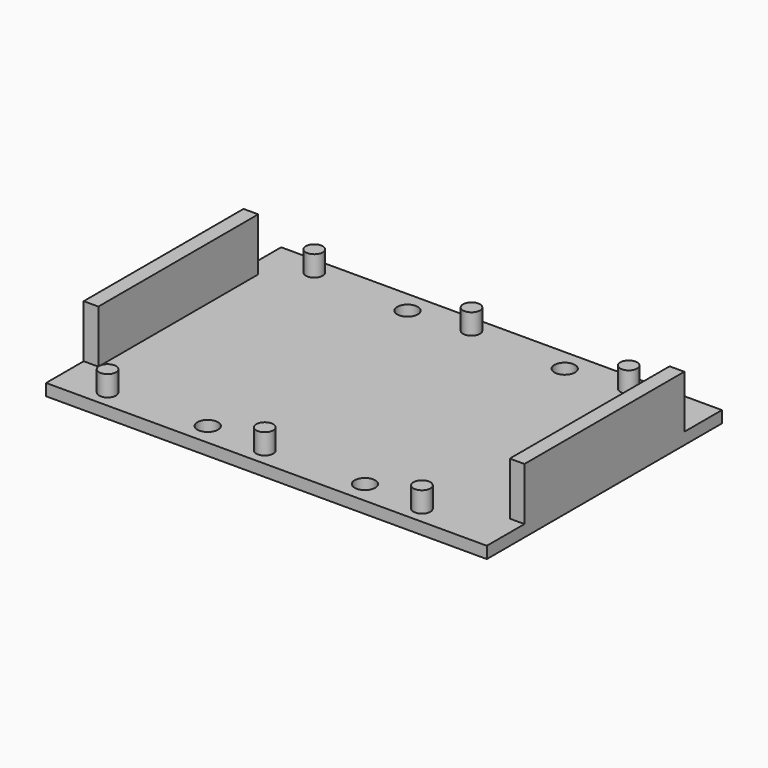
from build123d import *

# Parameters (mm, degrees)
SKETCH_W        = 150
SKETCH_H        = 100
PAD_DEPTH       = 4
SKETCH005_W     = 5
SKETCH005_H     = 100
PAD001_DEPTH    = 18
SKETCH007_R     = 3.5
POCKET001_DEPTH = 5
SKETCH006_R     = 2.875
PAD002_DEPTH    = 7
SKETCH008_W     = 16
SKETCH008_H     = 18
POCKET_DEPTH    = 5
SKETCH009_W     = 16
SKETCH009_H     = 18
POCKET002_DEPTH = 5


with BuildPart() as part:
    # Sketch → Pad (new body)
    with BuildSketch(Plane.XY):
        Rectangle(SKETCH_W, SKETCH_H)
    extrude(amount=PAD_DEPTH)

    # Sketch005 → Pad001 (join)
    with BuildSketch(Plane.XY.offset(4)):
        with Locations((-72.5, 0)):
            Rectangle(SKETCH005_W, SKETCH005_H)
        with Locations((72.5, 0)):
            Rectangle(SKETCH005_W, SKETCH005_H)
    extrude(amount=PAD001_DEPTH)

    # Sketch007 → Pocket001 (cut)
    with BuildSketch(Plane.XY.offset(4)):
        with Locations((-26, 42.5)):
            Circle(SKETCH007_R)
        with Locations((27.5, 42.5)):
            Circle(SKETCH007_R)
        with Locations((27.5, -42.5)):
            Circle(SKETCH007_R)
        with Locations((-26, -42.5)):
            Circle(SKETCH007_R)
    extrude(amount=-POCKET001_DEPTH, mode=Mode.SUBTRACT)

    # Sketch006 (on Face6 of Pad001) → Pad002 (join)
    with BuildSketch(Plane.XY.offset(4)):
        with Locations((-59, 44.1)):
            Circle(SKETCH006_R)
        with Locations((-5.5, 44.1)):
            Circle(SKETCH006_R)
        with Locations((48, 44.1)):
            Circle(SKETCH006_R)
        with Locations((48.2, -44.1)):
            Circle(SKETCH006_R)
        with Locations((-5.3, -44.1)):
            Circle(SKETCH006_R)
        with Locations((-58.8, -44.1)):
            Circle(SKETCH006_R)
    extrude(amount=PAD002_DEPTH)

    # Sketch008 (on Face9 of Pad002) → Pocket (cut)
    with BuildSketch(Plane(origin=(-75, 0, 0), x_dir=(0, -1, 0), z_dir=(-1, 0, 0))):
        with Locations((-42, 13)):
            Rectangle(SKETCH008_W, SKETCH008_H)
        with Locations((42, 13)):
            Rectangle(SKETCH008_W, SKETCH008_H)
    extrude(amount=-POCKET_DEPTH, mode=Mode.SUBTRACT)

    # Sketch009 (on Face11 of Pocket) → Pocket002 (cut)
    with BuildSketch(Plane.YZ.offset(75)):
        with Locations((42, 13)):
            Rectangle(SKETCH009_W, SKETCH009_H)
        with Locations((-42, 13)):
            Rectangle(SKETCH009_W, SKETCH009_H)
    extrude(amount=-POCKET002_DEPTH, mode=Mode.SUBTRACT)


solid = part.part
